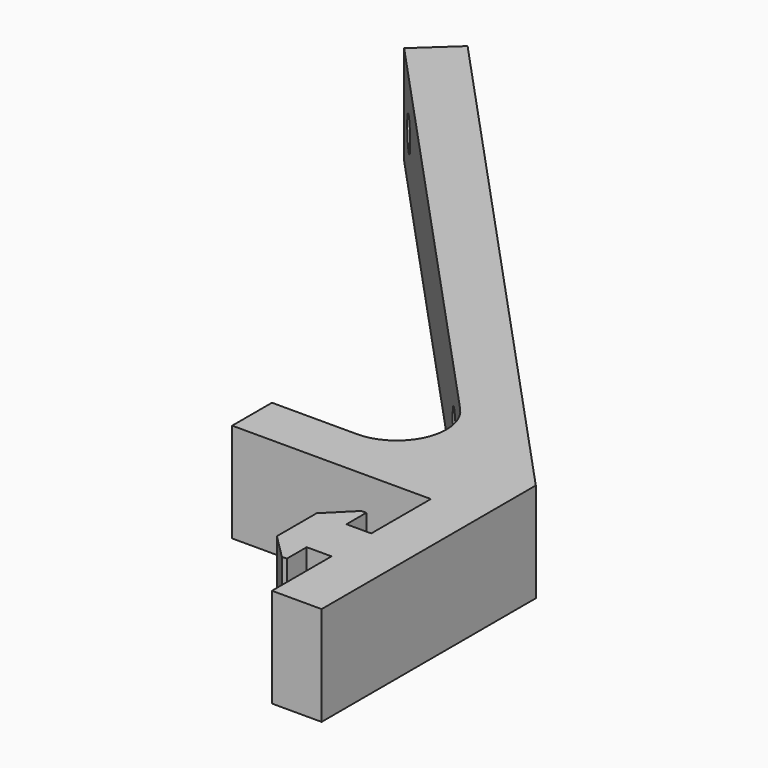
from build123d import *

# Parameters (mm, degrees)
F1_DEPTH = 10
F2_R     = 5
F3_R     = 1.65
F4_DEPTH = 58.3841123594
F5_DEPTH = 25


with BuildPart() as f1:
    # F0 (on Top) → F1 (new body)
    with BuildSketch(Plane.XY):
        Polygon((-25, 25), (-25, 20), (-5, 20), (-5, 12.5), (-7.5, 12.5), (-7.5, 15), (-8, 15), (-10.5, 12.5), (-10.5, 7.5), (-8, 5), (-7.5, 5), (-7.5, 7.5), (-5, 7.5), (-5, 0), (0, 0), (0, 26.9574919131), (-50.9201724728, 82.0223267475), (-54.5911614618, 78.6276485826), (-5, 25), align=None)
    extrude(amount=F1_DEPTH)

    # F2
    f2_edges = [f1.edges().sort_by_distance(p)[0] for p in [
        (-5, 25, 5),
    ]]
    fillet(f2_edges, radius=F2_R)

    # F3 (on face) → F4 (cut, through all)
    with BuildSketch(Plane(origin=(13.4375831218, 12.4261527749, 0), x_dir=(-0.678935633, 0.7341977978, 0), z_dir=(0.7341977978, 0.678935633, 0))):
        with Locations((89.7921311966, 5)):
            Circle(F3_R)
    extrude(amount=-F4_DEPTH, mode=Mode.SUBTRACT)

    # F3 (on face) → F5 (cut)
    with BuildSketch(Plane(origin=(13.4375831218, 12.4261527749, 0), x_dir=(-0.678935633, 0.7341977978, 0), z_dir=(0.7341977978, 0.678935633, 0))):
        with Locations((39.7921311966, 5)):
            Circle(F3_R)
    extrude(amount=-F5_DEPTH, mode=Mode.SUBTRACT)


solid = f1.part
